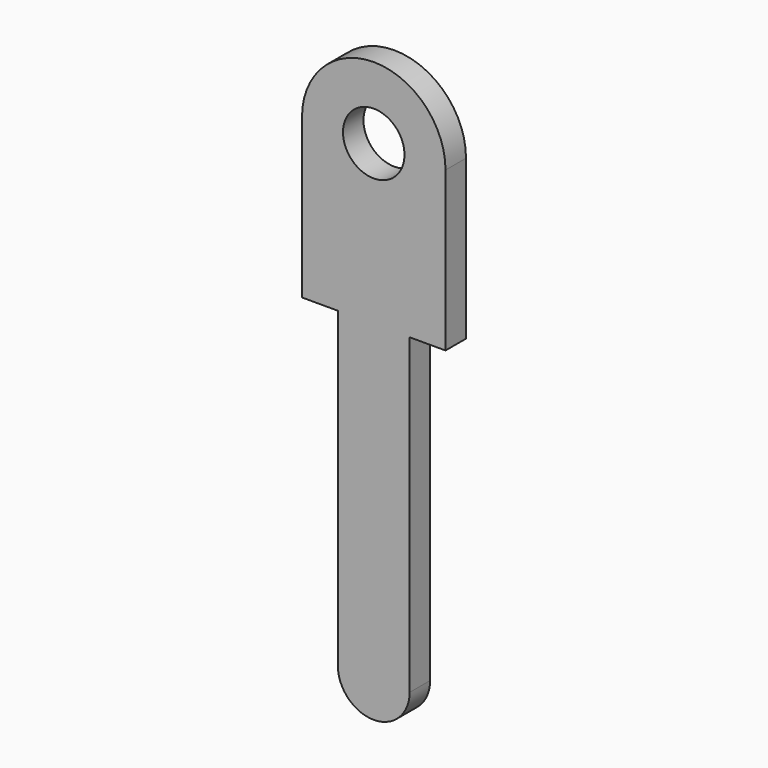
from build123d import *

# Parameters (mm, degrees)
SKETCH_R  = 0.6
PAD_DEPTH = 0.25


with BuildPart() as part:
    # Sketch → Pad (new body, symmetric)
    with BuildSketch(Plane(origin=(0, 0, 0), x_dir=(-1, 0, 0), z_dir=(0, 1, 0))):
        with BuildLine():
            Line((-1.4, 3.1), (-1.4, 0))
            Line((-1.4, 0), (-0.7, 0))
            Line((-0.7, 0), (-0.7, -6.1))
            ThreePointArc((-0.7, -6.1), (0, -6.8), (0.7, -6.1))
            Line((0.7, 0), (0.7, -6.1))
            Line((0.7, 0), (1.4, 0))
            Line((1.4, 0), (1.4, 3.1))
            ThreePointArc((1.4, 3.1), (0, 4.5), (-1.4, 3.1))
        make_face()
        with Locations((0, 3.1)):
            Circle(SKETCH_R, mode=Mode.SUBTRACT)
    extrude(amount=PAD_DEPTH, both=True)


solid = part.part
